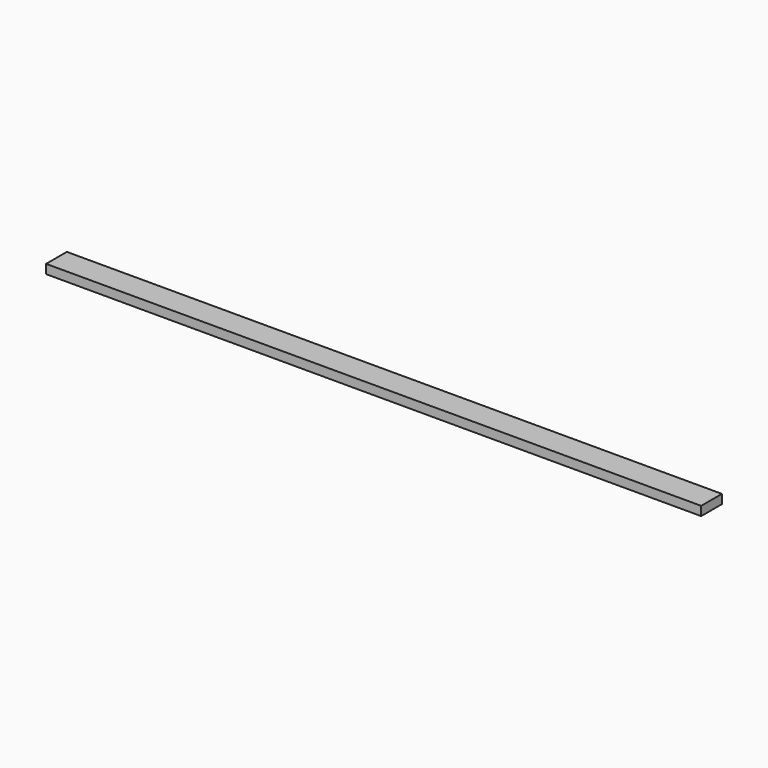
from build123d import *

# Parameters (mm, degrees)
F0_W     = 10
F0_H     = 10
F1_DEPTH = 7
F2_DEPTH = 1
F3_W     = 18
F3_H     = 6
F4_DEPTH = 504


with BuildPart() as f1:
    # F0 (on Top) → F1 (new body)
    with BuildSketch(Plane.XY):
        Polygon((336.860095, -249.837965), (-168.139905, -249.837965), (-168.139905, -254.837965), (-158.139905, -254.837965), (-158.139905, -264.837965), (-168.139905, -264.837965), (-168.139905, -269.837965), (336.860095, -269.837965), align=None)
        with Locations((-163.139905, -259.837965)):
            Rectangle(F0_W, F0_H)
    extrude(amount=F1_DEPTH)

    # F0 (on Top) → F2 (join)
    with BuildSketch(Plane.XY):
        with Locations((-163.139905, -259.837965)):
            Rectangle(F0_W, F0_H)
    extrude(amount=-F2_DEPTH)

    # F3 (on face) → F4 (cut)
    with BuildSketch(Plane(origin=(-168.139905, 0, 0), x_dir=(0, -1, 0), z_dir=(-1, 0, 0))):
        with Locations((259.837965, 3.5)):
            Rectangle(F3_W, F3_H)
    extrude(amount=-F4_DEPTH, mode=Mode.SUBTRACT)


solid = f1.part
